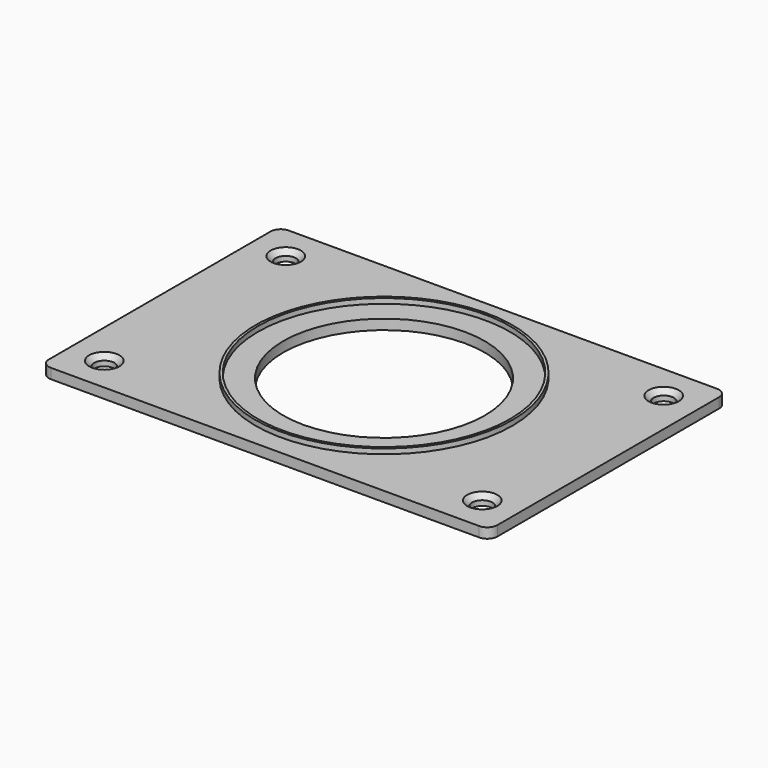
from build123d import *

# Parameters (mm, degrees)
SKETCH_R      = 20
SKETCH_R_2    = 2
PAD_DEPTH     = 2
SKETCH001_R   = 25.5
SKETCH001_R_2 = 25
PAD001_DEPTH  = 1
CHAMFER_SIZE  = 1


with BuildPart() as part:
    # Sketch → Pad (new body)
    with BuildSketch(Plane.XY):
        with BuildLine():
            Line((-42.5, 29.5), (42.5, 29.5))
            ThreePointArc((44.5, 27.5), (43.914214, 28.914214), (42.5, 29.5))
            Line((44.5, 27.5), (44.5, -27.5))
            ThreePointArc((42.5, -29.5), (43.914214, -28.914214), (44.5, -27.5))
            Line((42.5, -29.5), (-42.5, -29.5))
            ThreePointArc((-44.5, -27.5), (-43.914214, -28.914214), (-42.5, -29.5))
            Line((-44.5, -27.5), (-44.5, 27.5))
            ThreePointArc((-42.5, 29.5), (-43.914214, 28.914214), (-44.5, 27.5))
        make_face()
        Circle(SKETCH_R, mode=Mode.SUBTRACT)
        with Locations((-37.5, 22.5)):
            Circle(SKETCH_R_2, mode=Mode.SUBTRACT)
        with Locations((-37.5, -22.5)):
            Circle(SKETCH_R_2, mode=Mode.SUBTRACT)
        with Locations((37.5, 22.5)):
            Circle(SKETCH_R_2, mode=Mode.SUBTRACT)
        with Locations((37.5, -22.5)):
            Circle(SKETCH_R_2, mode=Mode.SUBTRACT)
    extrude(amount=PAD_DEPTH)

    # Sketch001 → Pad001 (join)
    with BuildSketch(Plane.XY.offset(2)):
        Circle(SKETCH001_R)
        Circle(SKETCH001_R_2, mode=Mode.SUBTRACT)
    extrude(amount=PAD001_DEPTH)

    # Chamfer
    chamfer_edges = [part.edges().sort_by_distance(p)[0] for p in [
        (-39.5, 22.5, 2),
        (-39.5, -22.5, 2),
        (35.5, 22.5, 2),
        (35.5, -22.5, 2),
    ]]
    chamfer(chamfer_edges, length=CHAMFER_SIZE)


solid = part.part
